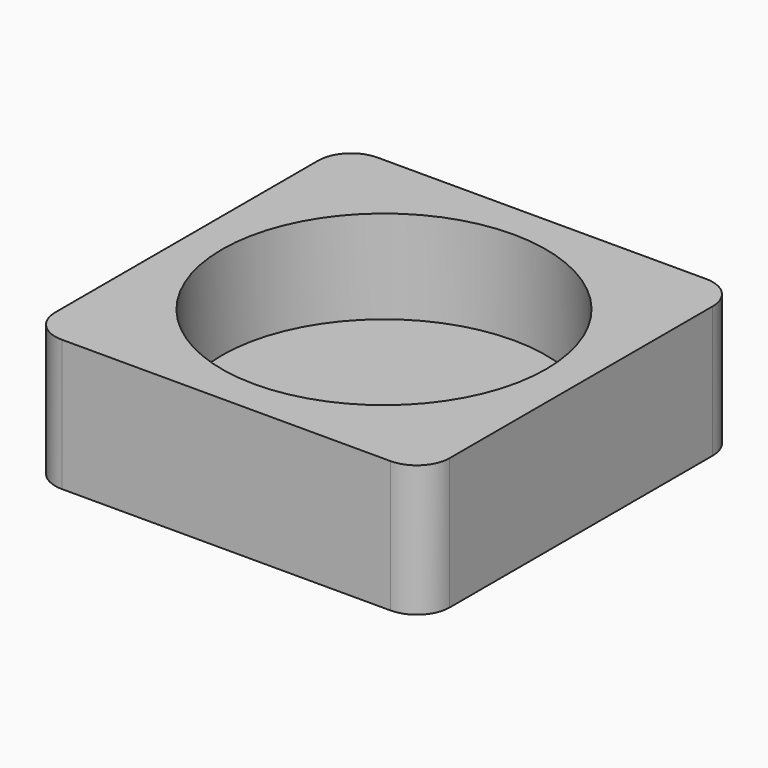
from build123d import *

# Parameters (mm, degrees)
F0_W     = 1828.8
F0_H     = 1828.8
F1_DEPTH = 609.6
F2_R     = 751.405034
F3_DEPTH = 431.8
F4_R     = 152.4


with BuildPart() as f1:
    # F0 (on Top) → F1 (new body)
    with BuildSketch(Plane.XY):
        with Locations((-78.992321, -32.782064)):
            Rectangle(F0_W, F0_H)
    extrude(amount=F1_DEPTH)

    # F2 (on face) → F3 (cut)
    with BuildSketch(Plane.XY.offset(609.6)):
        with Locations((-78.992321, -32.782064)):
            Circle(F2_R)
    extrude(amount=-F3_DEPTH, mode=Mode.SUBTRACT)

    # F4
    f4_edges = [f1.edges().sort_by_distance(p)[0] for p in [
        (-993.392321, -947.182064, 304.8),
        (835.407679, -947.182064, 304.8),
        (835.407679, 881.617936, 304.8),
        (-993.392321, 881.617936, 304.8),
    ]]
    fillet(f4_edges, radius=F4_R)


solid = f1.part
